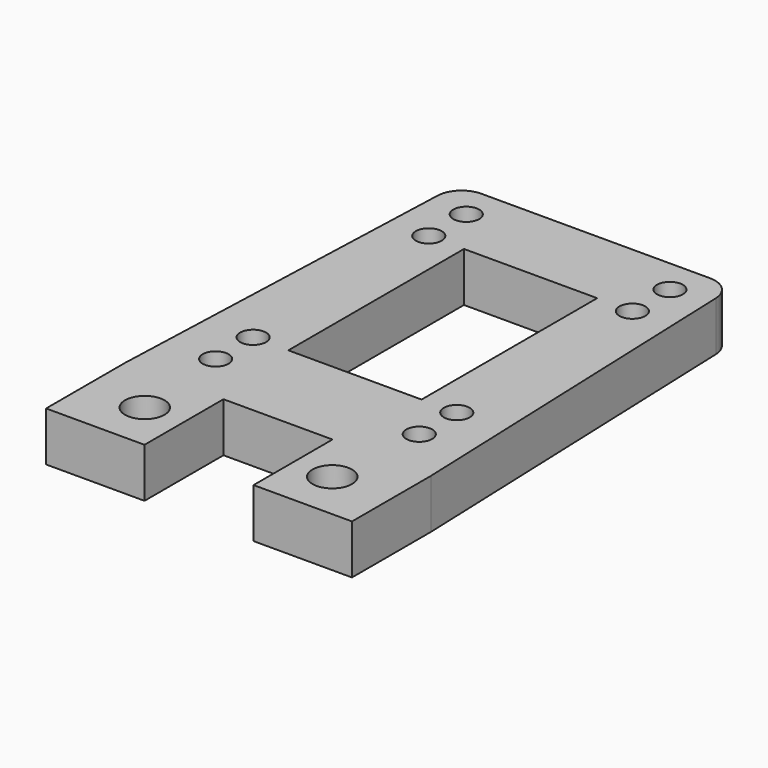
from build123d import *

# Parameters (mm, degrees)
F1_DEPTH = 10
F2_D     = 5.25
F3_D     = 8
F4_R     = 5


with BuildPart() as f1:
    # F0 (on Top) → F1 (new body)
    with BuildSketch(Plane.XY):
        Polygon((0, 33.75), (0, 50.25), (-28, 50.25), (-28, -50.25), (-11.05, -50.25), (-11.05, -30.25), (0, -30.25), (0, -10.75), (-13.5, -10.75), (-13.5, 33.75), align=None)
        Polygon((11.05, -50.25), (28, -50.25), (28, 50.25), (0, 50.25), (0, 33.75), (13.5, 33.75), (13.5, -10.75), (0, -10.75), (0, -30.25), (11.05, -30.25), align=None)
        Polygon((-28, -50.25), (-28, 50.25), (-31, -30.25), (-31, -50.25), align=None)
        Polygon((28, 50.25), (28, -50.25), (31, -50.25), (31, -30.25), align=None)
    extrude(amount=F1_DEPTH)

    # F2 (through all)
    with Locations(Plane(origin=(0, 0, 0), x_dir=(1, 0, 0), z_dir=(0, 0, -1))):
        with Locations((20.6375, 20.25), (-20.6375, 20.25), (-20.6375, -33.75), (20.6375, -33.75), (-20.6375, -43.25), (20.6375, -43.25), (20.6375, 10.75), (-20.6375, 10.75)):
            Hole(F2_D / 2)

    # F3 (through all)
    with Locations(Plane(origin=(0, 0, 0), x_dir=(1, 0, 0), z_dir=(0, 0, -1))):
        with Locations((-19, 40.25), (19, 40.25)):
            Hole(F3_D / 2)

    # F4
    f4_edges = [f1.edges().sort_by_distance(p)[0] for p in [
        (28, 50.25, 5),
        (-28, 50.25, 5),
    ]]
    fillet(f4_edges, radius=F4_R)


solid = f1.part
